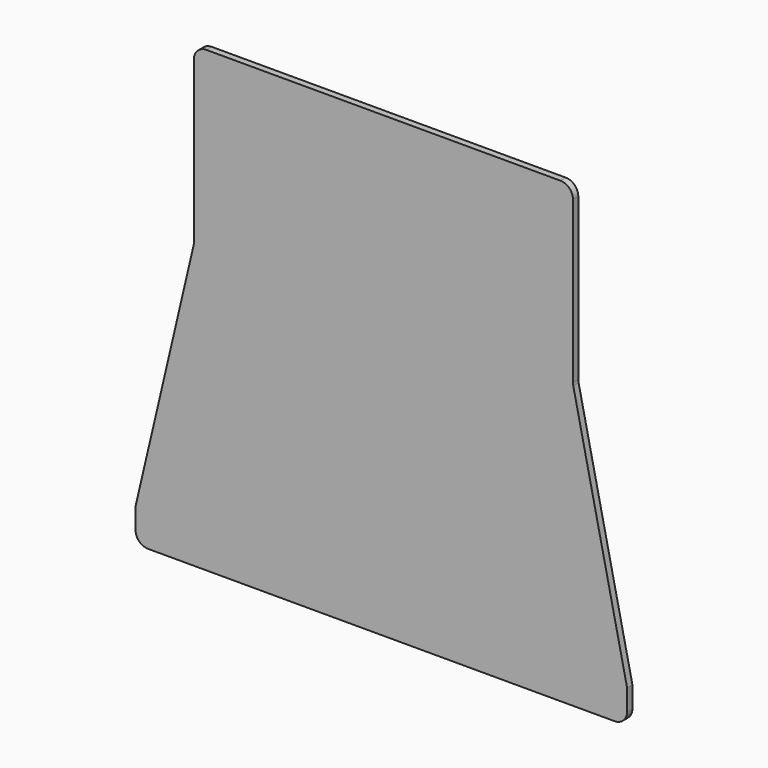
from build123d import *

# Parameters (mm, degrees)
F1_DEPTH = 1.6
F2_R     = 3


with BuildPart() as f1:
    # F0 (on Front) → F1 (new body)
    with BuildSketch(Plane.XZ):
        Polygon((-59.5, -68), (58.5, -68), (58.5, -60), (45.5, 0), (45.5, 42), (-45.5, 42), (-45.5, 0), (-59.5, -60), align=None)
    extrude(amount=F1_DEPTH)

    # F2
    f2_edges = [f1.edges().sort_by_distance(p)[0] for p in [
        (-59.5, -0.8, -68),
        (58.5, -0.8, -68),
        (-45.5, -0.8, 42),
        (45.5, -0.8, 42),
        (45.5, -0.8, 0),
        (-45.5, -0.8, 0),
    ]]
    fillet(f2_edges, radius=F2_R)


solid = f1.part
